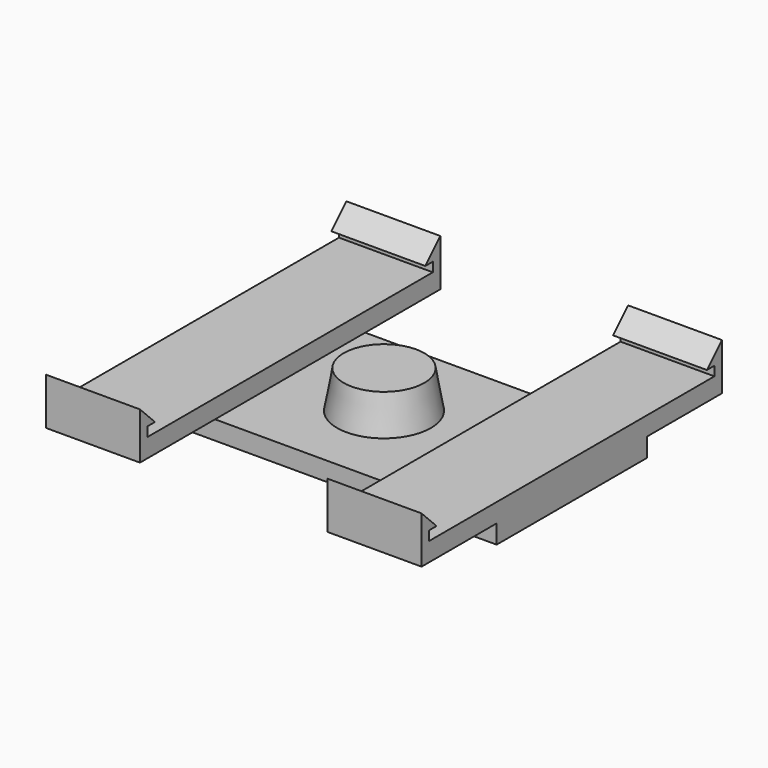
from build123d import *

# Parameters (mm, degrees)
F0_W      = 50.8
F0_H      = 25.4
F1_DEPTH  = 2.54
F2_W      = 12.7
F2_H      = 50.8
F3_DEPTH  = 2.54
F4_W      = 12.7
F4_H      = 2.54
F5_DEPTH  = 3.81
F6_W      = 1.27
F6_H      = 1.27
F7_DEPTH  = 25.4
F10_R     = 6.35
F11_DEPTH = 5.08
F11_TAPER = 10


with BuildPart() as f1:
    # F0 (on Top) → F1 (new body)
    with BuildSketch(Plane.XY):
        Rectangle(F0_W, F0_H)
    extrude(amount=F1_DEPTH)

    # F2 (on face) → F3 (join)
    with BuildSketch(Plane.XY.offset(2.54)):
        with Locations((-19.05, 0)):
            Rectangle(F2_W, F2_H)
    extrude(amount=F3_DEPTH)

    # F4 (on face) → F5 (join)
    with BuildSketch(Plane.XY.offset(5.08)):
        with Locations((-19.05, 24.13)):
            Rectangle(F4_W, F4_H)
    extrude(amount=F5_DEPTH)

    # F6 (on face) → F7 (cut)
    with BuildSketch(Plane(origin=(-25.4, 0, 0), x_dir=(0, -1, 0), z_dir=(-1, 0, 0))):
        Polygon((-22.86, 8.89), (-25.4, 8.89), (-22.86, 6.35), align=None)
        with Locations((-23.495, 5.715)):
            Rectangle(F6_W, F6_H)
    extrude(amount=-F7_DEPTH, mode=Mode.SUBTRACT)


with BuildPart() as f8_1:
    # F8: instance of F1
    add(f1.part.mirror(Plane.XZ))


with BuildPart() as f9_1:
    # F9: instance of F1
    add(f1.part.mirror(Plane.YZ))


with BuildPart() as f9_2:
    # F9: instance of F8_1
    add(f8_1.part.mirror(Plane.YZ))


with BuildPart() as f1_1:
    add(f1.part)

    add(f8_1.part)  # F11 merges F8_1

    add(f9_1.part)  # F11 merges F9_1

    add(f9_2.part)  # F11 merges F9_2
    # F10 (on face) → F11 (join)
    with BuildSketch(Plane.XY.offset(2.54)):
        Circle(F10_R)
    extrude(amount=F11_DEPTH, taper=F11_TAPER)


solid = f1_1.part
